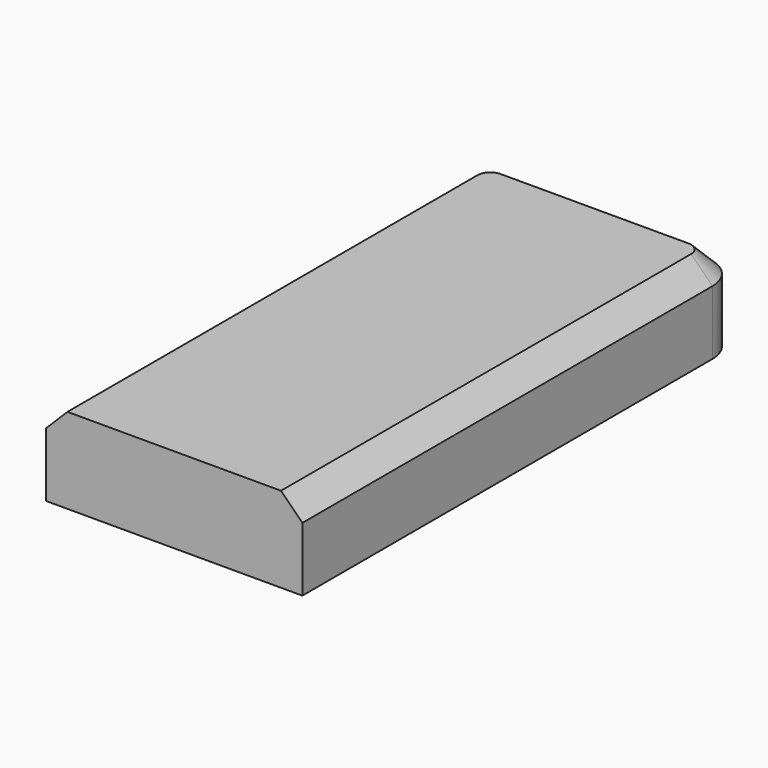
from build123d import *

# Parameters (mm, degrees)
F0_W     = 38.1
F0_H     = 81.28
F1_DEPTH = 12.7
F2_R     = 5.08
F3_SIZE  = 3.175


with BuildPart() as f1:
    # F0 (on Top) → F1 (new body)
    with BuildSketch(Plane.XY):
        Rectangle(F0_W, F0_H)
    extrude(amount=F1_DEPTH)

    # F2
    f2_edges = [f1.edges().sort_by_distance(p)[0] for p in [
        (-19.05, 40.64, 6.35),
        (19.05, 40.64, 6.35),
    ]]
    fillet(f2_edges, radius=F2_R)

    # F3
    f3_edges = [f1.edges().sort_by_distance(p)[0] for p in [
        (-19.05, -2.54, 12.7),
        (0, 40.64, 12.7),
        (19.05, -2.54, 12.7),
    ]]
    chamfer(f3_edges, length=F3_SIZE)


solid = f1.part
